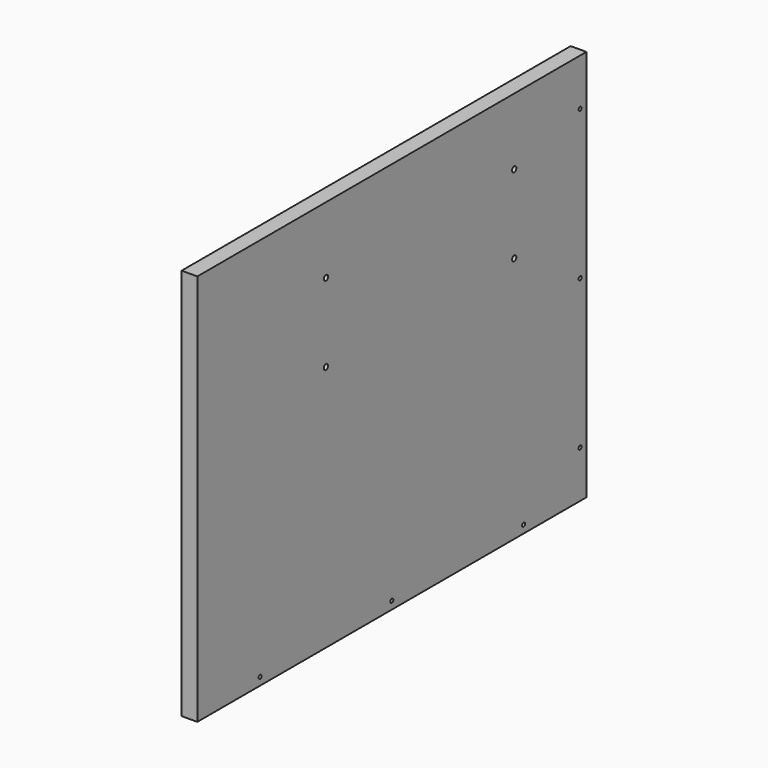
from build123d import *

# Parameters (mm, degrees)
CYLINDER009_R           = 1.7
CYLINDER009_DEPTH       = 20
CYLINDER005_R           = 1.7
CYLINDER005_DEPTH       = 61
CYLINDER005_PITCH_ANGLE = 90
CYLINDER004_R           = 1.7
CYLINDER004_DEPTH       = 61
CYLINDER004_PITCH_ANGLE = 90
CYLINDER002_R           = 1.7
CYLINDER002_DEPTH       = 61
CYLINDER002_PITCH_ANGLE = 90
BOX_W                   = 50
BOX_H                   = 215
BOX_DEPTH               = 115
CYLINDER006_R           = 1.7
CYLINDER006_DEPTH       = 61
CYLINDER006_PITCH_ANGLE = 90
SKETCH005_W             = 310
SKETCH005_H             = 250
SKETCH005_R             = 1.2
SKETCH005_R_2           = 1.7
PAD005_DEPTH            = 10
CYLINDER008_R           = 1.7
CYLINDER008_DEPTH       = 20
CYLINDER010_R           = 1.7
CYLINDER010_DEPTH       = 20
CYLINDER010_ROLL_ANGLE  = 90
CYLINDER011_R           = 1.7
CYLINDER011_DEPTH       = 20
CYLINDER011_ROLL_ANGLE  = 90
CYLINDER012_R           = 1.7
CYLINDER012_DEPTH       = 20
CYLINDER012_ROLL_ANGLE  = 90
CYLINDER007_R           = 1.7
CYLINDER007_DEPTH       = 20


with BuildPart() as cylinder009:
    # Cylinder009 → Cylinder009 (new body)
    with BuildSketch(Plane(origin=(205, 120, 235), x_dir=(1, 0, 0), z_dir=(0, 0, 1))):
        Circle(CYLINDER009_R)
    extrude(amount=CYLINDER009_DEPTH)


with BuildPart() as cylinder005:
    # Cylinder005 → Cylinder005 (new body)
    with BuildSketch(Plane.XY):
        Circle(CYLINDER005_R)
    extrude(amount=CYLINDER005_DEPTH)


with BuildPart() as cylinder005_1:
    # Cylinder005 pitch: moved
    add(cylinder005.part.rotate(Axis((0, 0, 0), (0, 1, 0)), CYLINDER005_PITCH_ANGLE))


with BuildPart() as cylinder005_2:
    # Cylinder005 placement: moved
    add(cylinder005_1.part.moved(Location((150, 112.5, 147.5))))


with BuildPart() as cylinder004:
    # Cylinder004 → Cylinder004 (new body)
    with BuildSketch(Plane.XY):
        Circle(CYLINDER004_R)
    extrude(amount=CYLINDER004_DEPTH)


with BuildPart() as cylinder004_1:
    # Cylinder004 pitch: moved
    add(cylinder004.part.rotate(Axis((0, 0, 0), (0, 1, 0)), CYLINDER004_PITCH_ANGLE))


with BuildPart() as cylinder004_2:
    # Cylinder004 placement: moved
    add(cylinder004_1.part.moved(Location((150, -37.5, 197.5))))


with BuildPart() as cylinder002:
    # Cylinder002 → Cylinder002 (new body)
    with BuildSketch(Plane.XY):
        Circle(CYLINDER002_R)
    extrude(amount=CYLINDER002_DEPTH)


with BuildPart() as cylinder002_1:
    # Cylinder002 pitch: moved
    add(cylinder002.part.rotate(Axis((0, 0, 0), (0, 1, 0)), CYLINDER002_PITCH_ANGLE))


with BuildPart() as cylinder002_2:
    # Cylinder002 placement: moved
    add(cylinder002_1.part.moved(Location((150, -37.5, 147.5))))


with BuildPart() as box:
    # Box → Box (new body)
    with BuildSketch(Plane(origin=(150, -70, 115), x_dir=(1, 0, 0), z_dir=(0, 0, 1))):
        with Locations((25, 107.5)):
            Rectangle(BOX_W, BOX_H)
    extrude(amount=BOX_DEPTH)


with BuildPart() as fusion002:
    # Cylinder006 → Cylinder006 (new body)
    with BuildSketch(Plane.XY):
        Circle(CYLINDER006_R)
    extrude(amount=CYLINDER006_DEPTH)


with BuildPart() as fusion002_1:
    # Cylinder006 pitch: moved
    add(fusion002.part.rotate(Axis((0, 0, 0), (0, 1, 0)), CYLINDER006_PITCH_ANGLE))


with BuildPart() as fusion002_2:
    # Cylinder006 placement: moved
    add(fusion002_1.part.moved(Location((150, 112.5, 197.5))))

    # Fusion002: union Cylinder005, Cylinder004, Cylinder002, Box
    add(cylinder005_2.part)
    add(cylinder004_2.part)
    add(cylinder002_2.part)
    add(box.part)


with BuildPart() as cut002:
    # Sketch005 → Pad005 (new body)
    with BuildSketch(Plane.YZ.offset(200)):
        with Locations((15, 115)):
            Rectangle(SKETCH005_W, SKETCH005_H)
        with Locations((165, 210)):
            Circle(SKETCH005_R, mode=Mode.SUBTRACT)
        with Locations((165, 115)):
            Circle(SKETCH005_R, mode=Mode.SUBTRACT)
        with Locations((165, 20)):
            Circle(SKETCH005_R, mode=Mode.SUBTRACT)
        with Locations((120, -5)):
            Circle(SKETCH005_R, mode=Mode.SUBTRACT)
        with Locations((15, -5)):
            Circle(SKETCH005_R, mode=Mode.SUBTRACT)
        with Locations((-90, -5)):
            Circle(SKETCH005_R, mode=Mode.SUBTRACT)
        with Locations((-37.5, 197.5)):
            Circle(SKETCH005_R_2, mode=Mode.SUBTRACT)
        with Locations((-37.5, 147.5)):
            Circle(SKETCH005_R_2, mode=Mode.SUBTRACT)
        with Locations((112.5, 147.5)):
            Circle(SKETCH005_R_2, mode=Mode.SUBTRACT)
        with Locations((112.5, 197.5)):
            Circle(SKETCH005_R_2, mode=Mode.SUBTRACT)
    extrude(amount=PAD005_DEPTH)

    # Cut002: cut Fusion002
    add(fusion002_2.part, mode=Mode.SUBTRACT)


with BuildPart() as cut007:
    # Cut007 base: copy of Cut002
    add(cut002.part)

    # Cut007: cut Cylinder009
    add(cylinder009.part, mode=Mode.SUBTRACT)


with BuildPart() as cylinder008:
    # Cylinder008 → Cylinder008 (new body)
    with BuildSketch(Plane(origin=(205, 15, 235), x_dir=(1, 0, 0), z_dir=(0, 0, 1))):
        Circle(CYLINDER008_R)
    extrude(amount=CYLINDER008_DEPTH)


with BuildPart() as cut006:
    # Cut006 base: copy of Cut002
    add(cut002.part)

    # Cut006: cut Cylinder008
    add(cylinder008.part, mode=Mode.SUBTRACT)


with BuildPart() as cylinder010:
    # Cylinder010 → Cylinder010 (new body)
    with BuildSketch(Plane.XY):
        Circle(CYLINDER010_R)
    extrude(amount=CYLINDER010_DEPTH)


with BuildPart() as cylinder010_1:
    # Cylinder010 roll: moved
    add(cylinder010.part.rotate(Axis((0, 0, 0), (1, 0, 0)), CYLINDER010_ROLL_ANGLE))


with BuildPart() as cylinder010_2:
    # Cylinder010 placement: moved
    add(cylinder010_1.part.moved(Location((205, -135, 20))))


with BuildPart() as cut008:
    # Cut008 base: copy of Cut002
    add(cut002.part)

    # Cut008: cut Cylinder010
    add(cylinder010_2.part, mode=Mode.SUBTRACT)


with BuildPart() as cylinder011:
    # Cylinder011 → Cylinder011 (new body)
    with BuildSketch(Plane.XY):
        Circle(CYLINDER011_R)
    extrude(amount=CYLINDER011_DEPTH)


with BuildPart() as cylinder011_1:
    # Cylinder011 roll: moved
    add(cylinder011.part.rotate(Axis((0, 0, 0), (1, 0, 0)), CYLINDER011_ROLL_ANGLE))


with BuildPart() as cylinder011_2:
    # Cylinder011 placement: moved
    add(cylinder011_1.part.moved(Location((205, -135, 115))))


with BuildPart() as cut009:
    # Cut009 base: copy of Cut002
    add(cut002.part)

    # Cut009: cut Cylinder011
    add(cylinder011_2.part, mode=Mode.SUBTRACT)


with BuildPart() as cylinder012:
    # Cylinder012 → Cylinder012 (new body)
    with BuildSketch(Plane.XY):
        Circle(CYLINDER012_R)
    extrude(amount=CYLINDER012_DEPTH)


with BuildPart() as cylinder012_1:
    # Cylinder012 roll: moved
    add(cylinder012.part.rotate(Axis((0, 0, 0), (1, 0, 0)), CYLINDER012_ROLL_ANGLE))


with BuildPart() as cylinder012_2:
    # Cylinder012 placement: moved
    add(cylinder012_1.part.moved(Location((205, -135, 210))))


with BuildPart() as cut010:
    # Cut010 base: copy of Cut002
    add(cut002.part)

    # Cut010: cut Cylinder012
    add(cylinder012_2.part, mode=Mode.SUBTRACT)


with BuildPart() as cylinder007:
    # Cylinder007 → Cylinder007 (new body)
    with BuildSketch(Plane(origin=(205, -90, 235), x_dir=(1, 0, 0), z_dir=(0, 0, 1))):
        Circle(CYLINDER007_R)
    extrude(amount=CYLINDER007_DEPTH)


with BuildPart() as fusion003:
    # Cut005 base: copy of Cut002
    add(cut002.part)

    # Cut005: cut Cylinder007
    add(cylinder007.part, mode=Mode.SUBTRACT)

    # Fusion003: union Cut007, Cut006, Cut008, Cut009, Cut010
    add(cut007.part)
    add(cut006.part)
    add(cut008.part)
    add(cut009.part)
    add(cut010.part)


solid = fusion003.part
